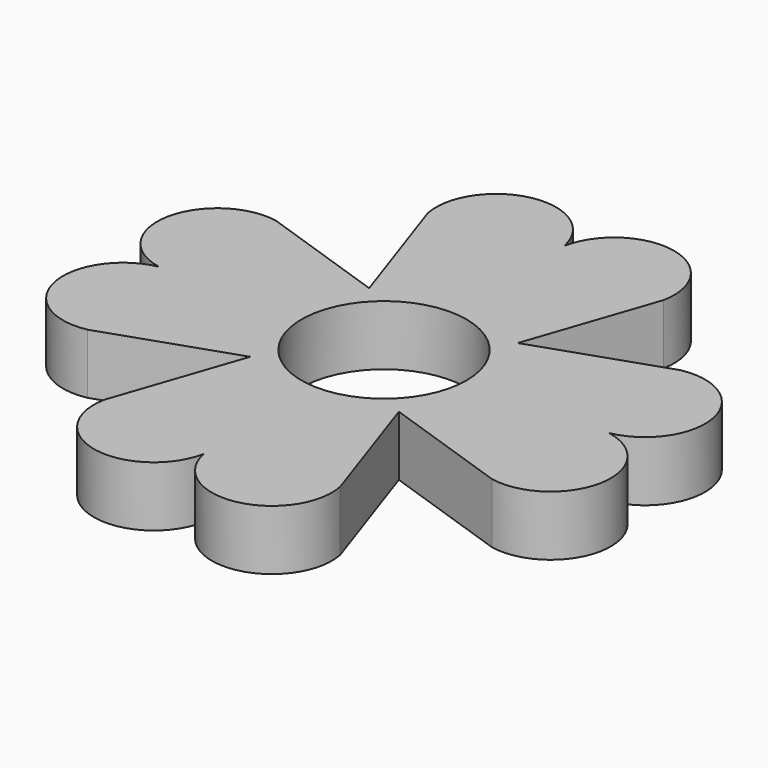
from build123d import *

# Parameters (mm, degrees)
F0_R     = 11
F1_DEPTH = 8


with BuildPart() as f1:
    # F0 (on Top) → F1 (new body)
    with BuildSketch(Plane.XY):
        with BuildLine():
            ThreePointArc((9.899495, -9.899495), (12.934313, -5.357568), (14, 0))
            ThreePointArc((14, 0), (12.934313, 5.357568), (9.899495, 9.899495))
            ThreePointArc((9.899495, 9.899495), (0, 14), (-9.899495, 9.899495))
            ThreePointArc((-9.899495, 9.899495), (-14, 0), (-9.899495, -9.899495))
            ThreePointArc((-9.899495, -9.899495), (0, -14), (9.899495, -9.899495))
        make_face()
        Circle(F0_R, mode=Mode.SUBTRACT)
        with BuildLine():
            ThreePointArc((-9.899495, -9.899495), (-14, 0), (-9.899495, 9.899495))
            Line((-9.899495, 9.899495), (-26.937857, 15.704167))
            ThreePointArc((-26.937857, 15.704167), (-36.345262, 9.387883), (-30, 0))
            ThreePointArc((-30, 0), (-36.345262, -9.387883), (-26.937857, -15.704167))
            Line((-26.937857, -15.704167), (-9.899495, -9.899495))
        make_face()
        with BuildLine():
            ThreePointArc((-9.899495, 9.899495), (0, 14), (9.899495, 9.899495))
            Line((9.899495, 9.899495), (15.704167, 26.937857))
            ThreePointArc((15.704167, 26.937857), (9.387883, 36.345262), (0, 30))
            ThreePointArc((0, 30), (-9.387883, 36.345262), (-15.704167, 26.937857))
            Line((-15.704167, 26.937857), (-9.899495, 9.899495))
        make_face()
        with BuildLine():
            ThreePointArc((9.899495, 9.899495), (12.934313, 5.357568), (14, 0))
            ThreePointArc((14, 0), (12.934313, -5.357568), (9.899495, -9.899495))
            Line((9.899495, -9.899495), (26.937857, -15.704167))
            ThreePointArc((26.937857, -15.704167), (36.345262, -9.387883), (30, 0))
            ThreePointArc((30, 0), (36.345262, 9.387883), (26.937857, 15.704167))
            Line((26.937857, 15.704167), (9.899495, 9.899495))
        make_face()
        with BuildLine():
            Line((15.704167, -26.937857), (9.899495, -9.899495))
            ThreePointArc((9.899495, -9.899495), (0, -14), (-9.899495, -9.899495))
            Line((-9.899495, -9.899495), (-15.704167, -26.937857))
            ThreePointArc((-15.704167, -26.937857), (-9.387883, -36.345262), (0, -30))
            ThreePointArc((0, -30), (9.387883, -36.345262), (15.704167, -26.937857))
        make_face()
    extrude(amount=F1_DEPTH)


solid = f1.part
